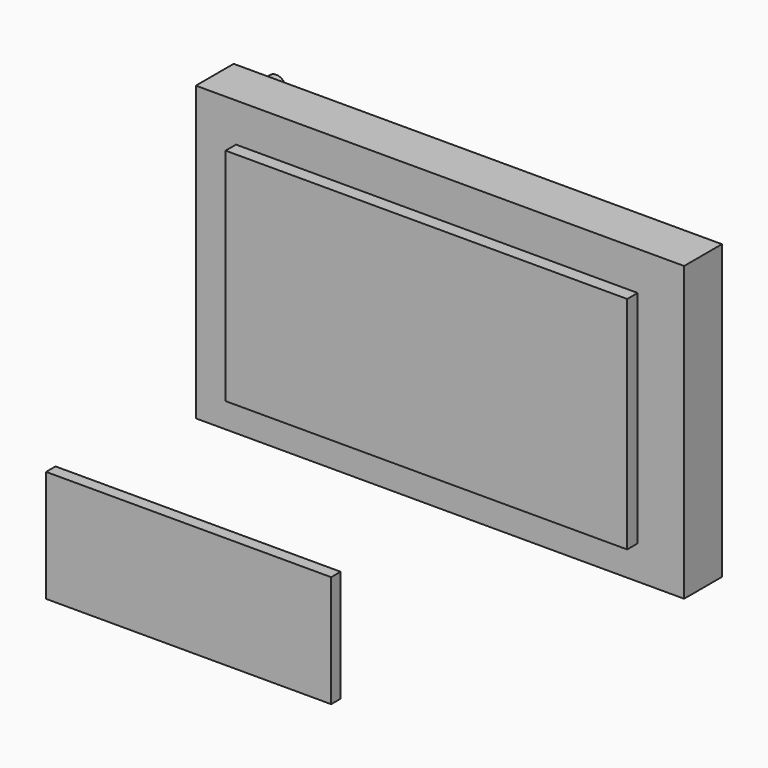
from build123d import *

# Parameters (mm, degrees)
F0_W     = 787.4
F0_H     = 472.44
F1_DEPTH = 76.2
F2_W     = 647.7
F2_H     = 355.6
F3_DEPTH = 21.082
F5_R     = 19.05
F5_R_2   = 15.875
F6_DEPTH = 50.8
F7_W     = 459.74
F7_H     = 180.34
F8_DEPTH = 19.05


with BuildPart() as f1:
    # F0 (on Front) → F1 (new body)
    with BuildSketch(Plane.XZ):
        with Locations((393.7, -236.22)):
            Rectangle(F0_W, F0_H)
    extrude(amount=F1_DEPTH)

    # F5 (on face) → F6 (join)
    with BuildSketch(Plane(origin=(0, 0, 0), x_dir=(-1, 0, 0), z_dir=(0, 1, 0))):
        with Locations((-36.820643, -403.075725)):
            Circle(F5_R)
        with Locations((-28.036814, -42.939235)):
            Circle(F5_R_2)
    extrude(amount=F6_DEPTH)


with BuildPart() as f3:
    # F2 (on face) → F3 (new body)
    with BuildSketch(Plane.XZ.offset(76.2)):
        with Locations((393.7, -236.22)):
            Rectangle(F2_W, F2_H)
    extrude(amount=F3_DEPTH)


with BuildPart() as f3_1:
    # F4: moved
    add(f3.part.moved(Location((0, -6.35, 0))))


with BuildPart() as f8:
    # F7 (on Front) → F8 (new body)
    with BuildSketch(Plane.XZ):
        with Locations((-57.389238, -755.166676)):
            Rectangle(F7_W, F7_H)
    extrude(amount=F8_DEPTH)


solid = Compound([f1.part, f3_1.part, f8.part])
